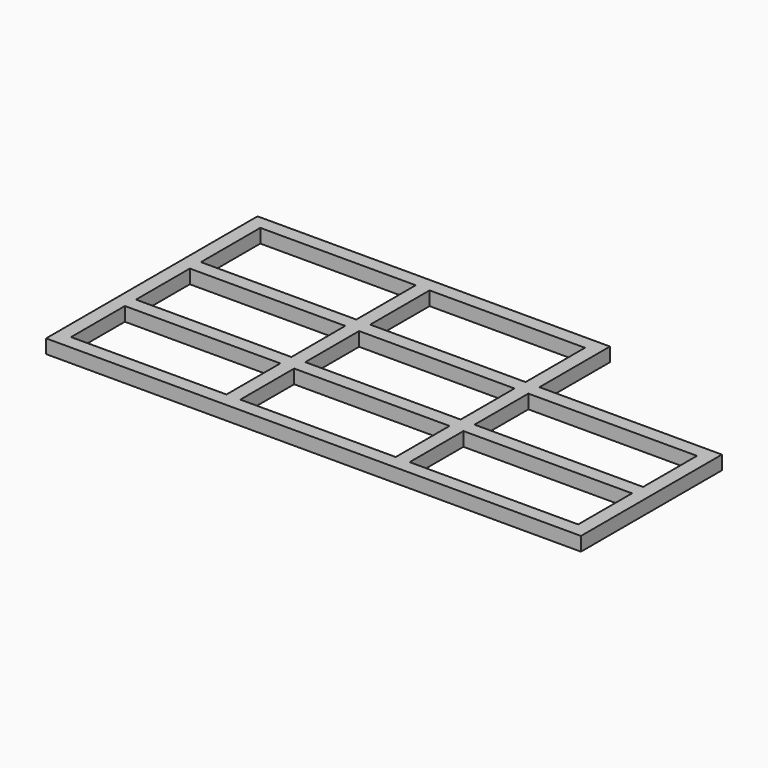
from build123d import *

# Parameters (mm, degrees)
F0_W     = 4
F0_H     = 21.4
F0_H_2   = 4
F0_W_2   = 44.8
F0_H_3   = 19.4
F0_W_3   = 48.6
F1_DEPTH = 4


with BuildPart() as f1:
    # F0 (on Top) → F1 (new body)
    with BuildSketch(Plane.XY):
        Polygon((-20.8332327306, 23.1812172311), (-122.4332327306, 23.1812172311), (-122.4332327306, -53.0187827689), (31.7667672694, -53.0187827689), (31.7667672694, -2.2187827689), (-20.8332327306, -2.2187827689), align=None)
        Polygon((-24.8332327306, -2.2187827689), (-20.8332327306, -2.2187827689), (-20.8332327306, -6.2187827689), (27.7667672694, -6.2187827689), (27.7667672694, -25.6187827689), (27.7667672694, -29.6187827689), (27.7667672694, -49.0187827689), (-20.8332327306, -49.0187827689), (-24.8332327306, -49.0187827689), (-69.6332327306, -49.0187827689), (-73.6332327306, -49.0187827689), (-118.4332327306, -49.0187827689), (-118.4332327306, -29.6187827689), (-118.4332327306, -25.6187827689), (-118.4332327306, -6.2187827689), (-118.4332327306, -2.2187827689), (-118.4332327306, 19.1812172311), (-73.6332327306, 19.1812172311), (-69.6332327306, 19.1812172311), (-24.8332327306, 19.1812172311), align=None, mode=Mode.SUBTRACT)
        with Locations((-71.6332327306, 8.4812172311)):
            Rectangle(F0_W, F0_H)
        with Locations((-71.6332327306, -4.2187827689)):
            Rectangle(F0_W, F0_H_2)
        with Locations((-96.0332327306, -4.2187827689)):
            Rectangle(F0_W_2, F0_H_2)
        with Locations((-71.6332327306, -15.9187827689)):
            Rectangle(F0_W, F0_H_3)
        with Locations((-71.6332327306, -27.6187827689)):
            Rectangle(F0_W, F0_H_2)
        with Locations((-96.0332327306, -27.6187827689)):
            Rectangle(F0_W_2, F0_H_2)
        with Locations((-71.6332327306, -39.3187827689)):
            Rectangle(F0_W, F0_H_3)
        with Locations((-47.2332327306, -4.2187827689)):
            Rectangle(F0_W_2, F0_H_2)
        with Locations((-22.8332327306, -4.2187827689)):
            Rectangle(F0_W, F0_H_2)
        with Locations((-22.8332327306, -15.9187827689)):
            Rectangle(F0_W, F0_H_3)
        with Locations((-47.2332327306, -27.6187827689)):
            Rectangle(F0_W_2, F0_H_2)
        with Locations((-22.8332327306, -27.6187827689)):
            Rectangle(F0_W, F0_H_2)
        with Locations((-22.8332327306, -39.3187827689)):
            Rectangle(F0_W, F0_H_3)
        with Locations((3.4667672694, -27.6187827689)):
            Rectangle(F0_W_3, F0_H_2)
    extrude(amount=F1_DEPTH)


solid = f1.part
